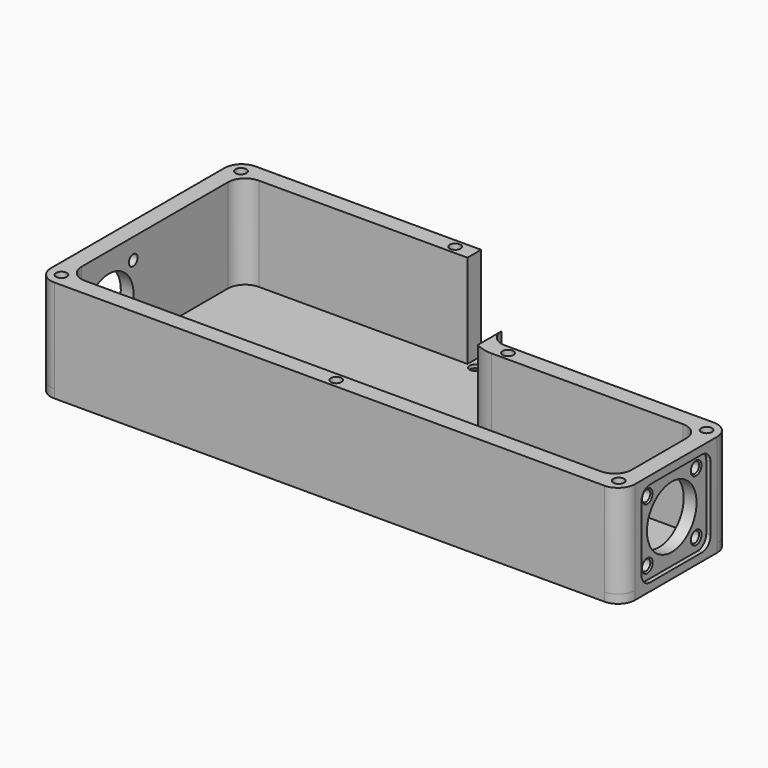
from build123d import *

# Parameters (mm, degrees)
F1_DEPTH        = 3.175
F2_R            = 6.35
F3_R            = 6.35
F5_DEPTH        = 34.7
F7_DEPTH        = 1.5875
F8_R            = 11.5
F9_DEPTH        = 215.1135
F11_D           = 4
F11_DEPTH       = 20
F11_START       = 1.5875
F11_CSINK_D     = 5
F11_CSINK_ANGLE = 90
F11_TIP         = 1.2017212381
F13_DEPTH       = 1.5875
F15_D           = 4
F15_DEPTH       = 20
F15_START       = 1.5875
F15_CSINK_D     = 5
F15_CSINK_ANGLE = 90
F15_TIP         = 1.2017212381
F17_D           = 4
F17_DEPTH       = 20
F17_TIP         = 1.2017212381
F20_D           = 4
F20_CSINK_D     = 8
F20_CSINK_ANGLE = 90


with BuildPart() as f1:
    # F0 (on Top) → F1 (new body)
    with BuildSketch(Plane.XY):
        Polygon((90.0875, 0), (0, 0), (0, -93.225), (216.7, -93.225), (216.7, -42.525), (126.6125, -42.525), (126.6125, 0), align=None)
    extrude(amount=F1_DEPTH)

    # F2
    f2_edges = [f1.edges().sort_by_distance(p)[0] for p in [
        (126.6125, -42.525, 1.5875),
    ]]
    fillet(f2_edges, radius=F2_R)

    # F3
    f3_edges = [f1.edges().sort_by_distance(p)[0] for p in [
        (216.7, -42.525, 1.5875),
        (216.7, -93.225, 1.5875),
        (0, -93.225, 1.5875),
        (0, 0, 1.5875),
    ]]
    fillet(f3_edges, radius=F3_R)

    # F4 (on face) → F5 (join)
    with BuildSketch(Plane.XY.offset(3.175)):
        with BuildLine():
            ThreePointArc((126.6125, -47.1735226281), (129.6754981272, -48.4422579939), (132.9625, -48.875))
            Line((132.9625, -48.875), (204, -48.875))
            ThreePointArc((204, -48.875), (208.4901280605, -50.7348719395), (210.35, -55.225))
            Line((210.35, -55.225), (210.35, -80.525))
            ThreePointArc((210.35, -80.525), (208.4901280605, -85.0151280605), (204, -86.875))
            Line((204, -86.875), (12.7, -86.875))
            ThreePointArc((12.7, -86.875), (8.2098719395, -85.0151280605), (6.35, -80.525))
            Line((6.35, -80.525), (6.35, -12.7))
            ThreePointArc((6.35, -12.7), (8.2098719395, -8.2098719395), (12.7, -6.35))
            Line((12.7, -6.35), (90.0875, -6.35))
            Line((90.0875, -6.35), (90.0875, 0))
            Line((90.0875, 0), (6.35, 0))
            ThreePointArc((6.35, 0), (1.8598719395, -1.8598719395), (0, -6.35))
            Line((0, -6.35), (0, -86.875))
            ThreePointArc((0, -86.875), (1.8598719395, -91.3651280605), (6.35, -93.225))
            Line((6.35, -93.225), (210.35, -93.225))
            ThreePointArc((210.35, -93.225), (214.8401280605, -91.3651280605), (216.7, -86.875))
            Line((216.7, -86.875), (216.7, -48.875))
            ThreePointArc((216.7, -48.875), (214.8401280605, -44.3848719395), (210.35, -42.525))
            Line((210.35, -42.525), (132.9625, -42.525))
            ThreePointArc((132.9625, -42.525), (128.4723719395, -40.6651280605), (126.6125, -36.175))
            Line((126.6125, -36.175), (126.6125, -47.1735226281))
        make_face()
    extrude(amount=F5_DEPTH)

    # F6 (on face) → F7 (cut)
    with BuildSketch(Plane.YZ.offset(216.7)):
        with BuildLine():
            ThreePointArc((-51.9375, 30.9375), (-53.1090728753, 33.7659271247), (-55.9375, 34.9375))
            Line((-55.9375, 34.9375), (-79.9375, 34.9375))
            ThreePointArc((-79.9375, 34.9375), (-82.7659271247, 33.7659271247), (-83.9375, 30.9375))
            Line((-83.9375, 30.9375), (-83.9375, 6.9375))
            ThreePointArc((-83.9375, 6.9375), (-82.7659271247, 4.1090728753), (-79.9375, 2.9375))
            Line((-79.9375, 2.9375), (-55.9375, 2.9375))
            ThreePointArc((-55.9375, 2.9375), (-53.1090728753, 4.1090728753), (-51.9375, 6.9375))
            Line((-51.9375, 6.9375), (-51.9375, 30.9375))
        make_face()
    extrude(amount=-F7_DEPTH, mode=Mode.SUBTRACT)

    # F8 (on face) → F9 (cut, through all)
    with BuildSketch(Plane.YZ.offset(215.1125)):
        with Locations((-67.9375, 18.9375)):
            Circle(F8_R)
    extrude(amount=-F9_DEPTH, mode=Mode.SUBTRACT)

    # F11
    # its depths count from where the whole tool has entered the part; down to there all is cleared
    with Locations(Plane.YZ.offset(216.7).offset(-F11_START)):
        with Locations((-79.251208499, 30.251208499), (-56.623791501, 30.251208499), (-56.623791501, 7.623791501), (-79.251208499, 7.623791501)):
            CounterSinkHole(F11_D / 2, F11_CSINK_D / 2, depth=F11_DEPTH, counter_sink_angle=F11_CSINK_ANGLE)
            with Locations((0, 0, -(F11_DEPTH + F11_TIP / 2))):  # 118° drill point
                Cone(0, F11_D / 2, F11_TIP, mode=Mode.SUBTRACT)

    # F12 (on face) → F13 (cut)
    with BuildSketch(Plane(origin=(0, 0, 0), x_dir=(0, -1, 0), z_dir=(-1, 0, 0))):
        with BuildLine():
            Line((79.9375, 34.9375), (55.9375, 34.9375))
            ThreePointArc((55.9375, 34.9375), (53.1090728753, 33.7659271247), (51.9375, 30.9375))
            Line((51.9375, 30.9375), (51.9375, 6.9375))
            ThreePointArc((51.9375, 6.9375), (53.1090728753, 4.1090728753), (55.9375, 2.9375))
            Line((55.9375, 2.9375), (79.9375, 2.9375))
            ThreePointArc((79.9375, 2.9375), (82.7659271247, 4.1090728753), (83.9375, 6.9375))
            Line((83.9375, 6.9375), (83.9375, 30.9375))
            ThreePointArc((83.9375, 30.9375), (82.7659271247, 33.7659271247), (79.9375, 34.9375))
        make_face()
    extrude(amount=-F13_DEPTH, mode=Mode.SUBTRACT)

    # F15
    # its depths count from where the whole tool has entered the part; down to there all is cleared
    with Locations(Plane(origin=(0, 0, 0), x_dir=(0, -1, 0), z_dir=(-1, 0, 0)).offset(-F15_START)):
        with Locations((56.623791501, 30.251208499), (56.623791501, 7.623791501), (79.251208499, 7.623791501), (79.251208499, 30.251208499)):
            CounterSinkHole(F15_D / 2, F15_CSINK_D / 2, depth=F15_DEPTH, counter_sink_angle=F15_CSINK_ANGLE)
            with Locations((0, 0, -(F15_DEPTH + F15_TIP / 2))):  # 118° drill point
                Cone(0, F15_D / 2, F15_TIP, mode=Mode.SUBTRACT)

    # F17
    with Locations(Plane.XY.offset(37.875)):
        with Locations((5, -5), (5, -88.225), (211.7, -88.225), (211.7, -47.525), (136.6125, -45.7), (83, -3.175), (108.35, -90.05)):
            Hole(F17_D / 2, depth=F17_DEPTH)
            with Locations((0, 0, -(F17_DEPTH + F17_TIP / 2))):  # 118° drill point
                Cone(0, F17_D / 2, F17_TIP, mode=Mode.SUBTRACT)

    # F20 (through all)
    with Locations(Plane(origin=(0, 0, 0), x_dir=(1, 0, 0), z_dir=(0, 0, -1))):
        with Locations((123.4375, 6.875), (123.4375, 42.875), (93.2625, 42.875), (93.2625, 6.875)):
            CounterSinkHole(F20_D / 2, F20_CSINK_D / 2, counter_sink_angle=F20_CSINK_ANGLE)


solid = f1.part
